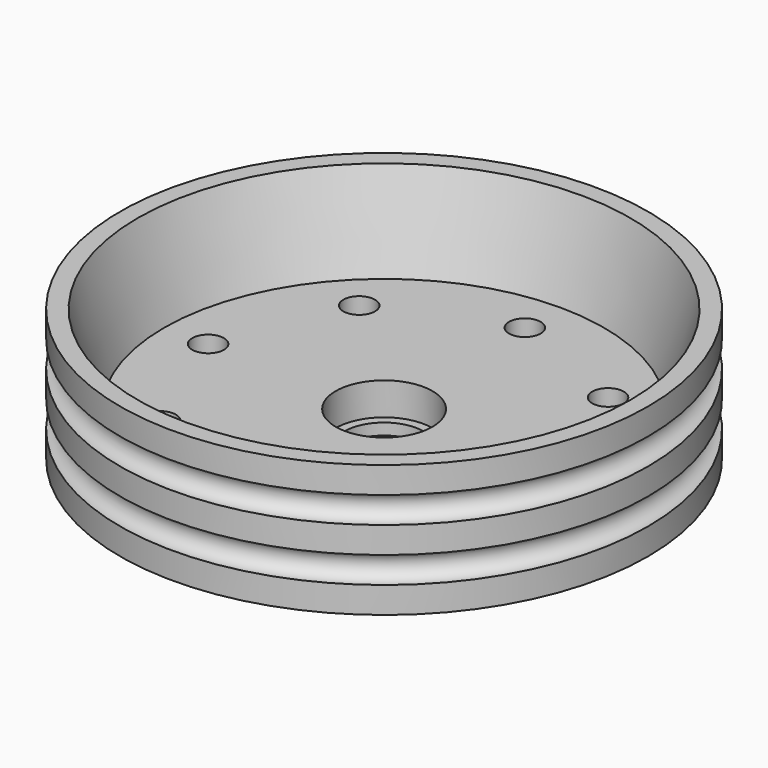
from build123d import *

# Parameters (mm, degrees)
TORUS_R              = 1.5
ARRAY003_Z_COUNT     = 2
ARRAY003_Z_PITCH     = 6
CYLINDER004001_R     = 4.5
CYLINDER004001_DEPTH = 0.2
ARRAY002_COUNT       = 2
CYLINDER004_R        = 4.5
CYLINDER004_DEPTH    = 10
ARRAY001_COUNT       = 2
CYLINDER001_R        = 1.8
CYLINDER001_DEPTH    = 10
ARRAY_COUNT          = 8
CYLINDER003_R        = 4.5
CYLINDER003_DEPTH    = 14
CYLINDER002_R        = 5.5
CYLINDER002_DEPTH    = 10
CYLINDER_R           = 30
CYLINDER_DEPTH       = 15


with BuildPart() as array_torus:
    # Torus → Torus (revolve)
    with BuildSketch(Plane(origin=(0, 0, -1.5), x_dir=(1, 0, 0), z_dir=(0, -1, 0))):
        with Locations((30, 0)):
            Circle(TORUS_R)
    revolve(axis=Axis((0, 0, -1.5), (0, 0, 1)))

    # Array003 Z: Array_torus ×2


with BuildPart() as array_torus_1:
    add(array_torus.part)
    with Locations(*[(0, 0, i * ARRAY003_Z_PITCH) for i in range(1, ARRAY003_Z_COUNT)]):
        add(array_torus.part)


with BuildPart() as array_torus_2:
    # Array003 placement: moved
    add(array_torus_1.part.moved(Location((0, 0, 6))))


with BuildPart() as cap_cover_thin:
    # Cylinder004001 → Cylinder004001 (new body)
    with BuildSketch(Plane(origin=(20, 0, 0.8), x_dir=(1, 0, 0), z_dir=(0, 0, 1))):
        Circle(CYLINDER004001_R)
    extrude(amount=CYLINDER004001_DEPTH)

    # Array002: cap-cover-thin ×2 about axis
    array002_axis = Axis((0, 0, 0), (0, 0, 1))


with BuildPart() as cap_cover_thin_1:
    add(cap_cover_thin.part)
    for i in range(1, ARRAY002_COUNT):
        add(cap_cover_thin.part.rotate(array002_axis, i * 360 / ARRAY002_COUNT))


with BuildPart() as cap_cover_thin_2:
    # Array002 placement: moved
    add(cap_cover_thin_1.part.moved(Location((0, 0, 2))))


with BuildPart() as cutout_for_screws_cap:
    # Cylinder004 → Cylinder004 (new body)
    with BuildSketch(Plane(origin=(20, 0, -9), x_dir=(1, 0, 0), z_dir=(0, 0, 1))):
        Circle(CYLINDER004_R)
    extrude(amount=CYLINDER004_DEPTH)

    # Array001: Cutout-for-screws-cap ×2 about axis
    array001_axis = Axis((0, 0, 0), (0, 0, 1))


with BuildPart() as cutout_for_screws_cap_1:
    add(cutout_for_screws_cap.part)
    for i in range(1, ARRAY001_COUNT):
        add(cutout_for_screws_cap.part.rotate(array001_axis, i * 360 / ARRAY001_COUNT))


with BuildPart() as cutout_for_screws_cap_2:
    # Array001 placement: moved
    add(cutout_for_screws_cap_1.part.moved(Location((0, 0, 2))))


with BuildPart() as cylinders_array_drills:
    # Cylinder001 → Cylinder001 (new body)
    with BuildSketch(Plane(origin=(20, 0, -2), x_dir=(1, 0, 0), z_dir=(0, 0, 1))):
        Circle(CYLINDER001_R)
    extrude(amount=CYLINDER001_DEPTH)

    # Array: Cylinders-array-drills ×8 about axis
    array_axis = Axis((0, 0, 0), (0, 0, 1))


with BuildPart() as cylinders_array_drills_1:
    add(cylinders_array_drills.part)
    for i in range(1, ARRAY_COUNT):
        add(cylinders_array_drills.part.rotate(array_axis, i * 360 / ARRAY_COUNT))


with BuildPart() as cylinder_inner_shaft:
    # Cylinder003 → Cylinder003 (new body)
    with BuildSketch(Plane.XY.offset(-1)):
        Circle(CYLINDER003_R)
    extrude(amount=CYLINDER003_DEPTH)


with BuildPart() as inner_cutout_4_5mm:
    # Cylinder002 → Cylinder002 (new body)
    with BuildSketch(Plane.XY.offset(1.3)):
        Circle(CYLINDER002_R)
    extrude(amount=CYLINDER002_DEPTH)


with BuildPart() as conic_cutout:
    # Cone → Cone (revolve)
    with BuildSketch(Plane(origin=(0, 0, 15), x_dir=(-1, 0, 0), z_dir=(0, -1, 0))):
        Polygon((0, 0), (28, 0), (25, 10), (0, 10), align=None)
    revolve(axis=Axis((0, 0, 15), (0, 0, -1)))


with BuildPart() as wheel_rear:
    # Cylinder → Cylinder (new body)
    with BuildSketch(Plane.XY):
        Circle(CYLINDER_R)
    extrude(amount=CYLINDER_DEPTH)

    # Cut: cut conic-cutout
    add(conic_cutout.part, mode=Mode.SUBTRACT)

    # Cut001: cut inner-cutout-4.5mm
    add(inner_cutout_4_5mm.part, mode=Mode.SUBTRACT)

    # Cut002: cut cylinder-inner-shaft
    add(cylinder_inner_shaft.part, mode=Mode.SUBTRACT)

    # Cut003: cut Cylinders-array-drills
    add(cylinders_array_drills_1.part, mode=Mode.SUBTRACT)

    # Cut004: cut Cutout-for-screws-cap
    add(cutout_for_screws_cap_2.part, mode=Mode.SUBTRACT)

    # Fusion: union cap-cover-thin
    add(cap_cover_thin_2.part)

    # Cut005: cut Array_torus
    add(array_torus_2.part, mode=Mode.SUBTRACT)


solid = wheel_rear.part
